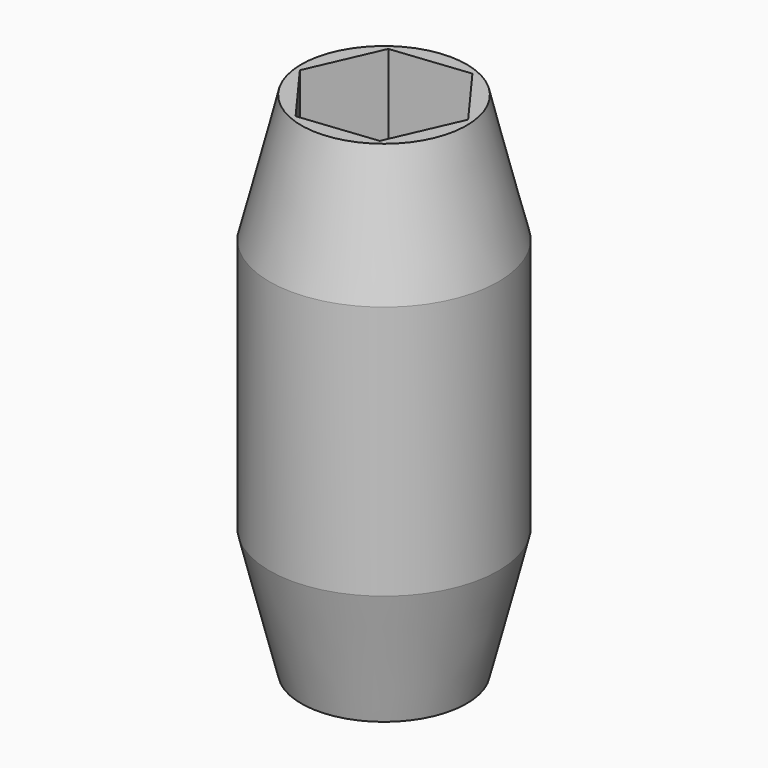
from build123d import *

# Parameters (mm, degrees)
F3_DEPTH      = 38.1
F3_DEPTH_BACK = 38.1


with BuildPart() as f2:
    # F1 (on Right) → F2 (revolve)
    with BuildSketch(Plane.YZ):
        Polygon((8.255, 24.9404996053), (6.731, 24.9404996053), (6.731, -25.8595003947), (8.255, -25.8595003947), (11.43, -13.1595003947), (11.43, 12.2404996053), align=None)
    revolve(axis=Axis((0, 0, -0.0453809016), (0, 0, -1)))

    # F0 (on Top) → F3 (cut, two sides)
    with BuildSketch(Plane.XY) as f3_sk:
        Polygon((7.7267937867, 0.8397256168), (3.136173177, 7.1114625174), (-4.5906206097, 6.2717369007), (-7.7267937867, -0.8397256168), (-3.136173177, -7.1114625174), (4.5906206097, -6.2717369007), align=None)
    extrude(amount=-F3_DEPTH, mode=Mode.SUBTRACT)
    extrude(f3_sk.sketch, amount=F3_DEPTH_BACK, mode=Mode.SUBTRACT)


solid = f2.part
